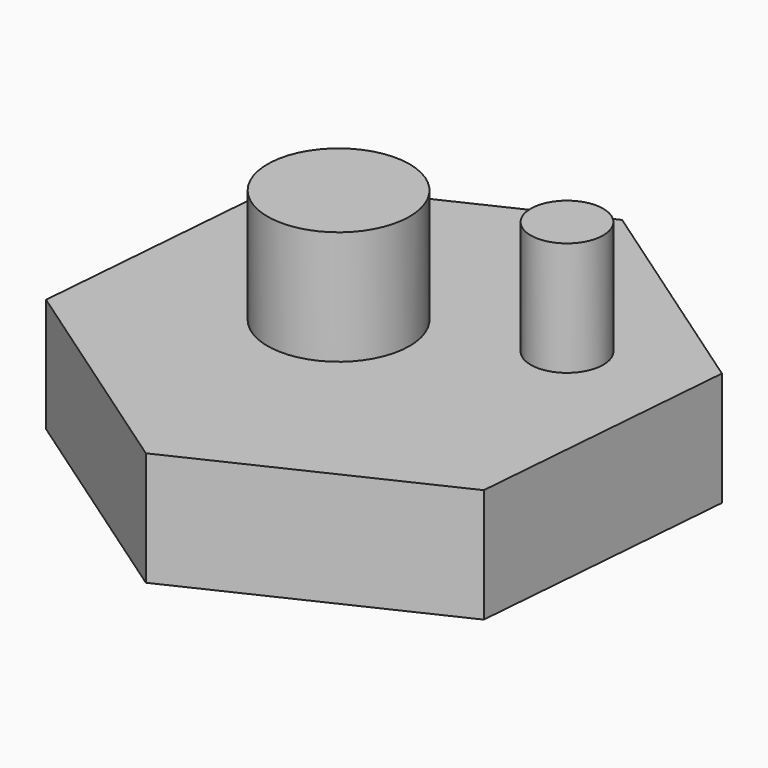
from build123d import *

# Parameters (mm, degrees)
F1_DEPTH = 25
F2_R     = 15.578145
F3_DEPTH = 25
F4_R     = 7.947035
F5_DEPTH = 25


with BuildPart() as f1:
    # F0 (on Top) → F1 (new body)
    with BuildSketch(Plane.XY):
        Polygon((4.813501, 59.28203), (-48.932993, 33.809629), (-53.746495, -25.472401), (-4.813501, -59.28203), (48.932993, -33.809629), (53.746495, 25.472401), align=None)
    extrude(amount=F1_DEPTH)

    # F2 (on face) → F3 (join)
    with BuildSketch(Plane.XY.offset(25)):
        with Locations((-9.968227, 0)):
            Circle(F2_R)
    extrude(amount=F3_DEPTH)

    # F4 (on face) → F5 (join)
    with BuildSketch(Plane.XY.offset(25)):
        with Locations((27.919721, 15.267807)):
            Circle(F4_R)
    extrude(amount=F5_DEPTH)


solid = f1.part
